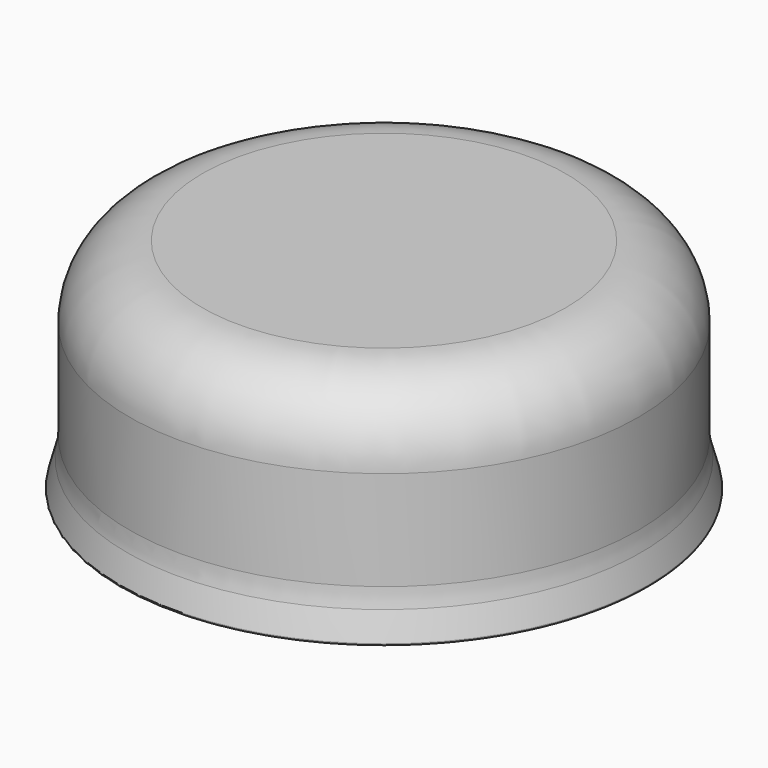
from build123d import *


with BuildPart() as f2:
    # F0 (on Front) → F2 (revolve)
    with BuildSketch(Plane.XZ):
        with BuildLine():
            Line((-24, 28.156529), (0, 28.156529))
            Line((0, 28.156529), (0, 30.156529))
            Line((0, 30.156529), (-25, 30.156529))
            ThreePointArc((-25, 30.156529), (-32.071068, 27.227597), (-35, 20.156529))
            Line((-35, 20.156529), (-35, 6.480276))
            ThreePointArc((-35, 6.480276), (-35.08648, 5.167977), (-35.344426, 3.878376))
            Line((-35.344426, 3.878376), (-36.32162, 0.252038))
            ThreePointArc((-36.32162, 0.252038), (-36.287265, 0.07836), (-36.128508, 0))
            Line((-36.128508, 0), (-34.538995, 0))
            ThreePointArc((-34.538995, 0), (-34.419273, 0.039792), (-34.347191, 0.143334))
            Line((-34.347191, 0.143334), (-33.631883, 2.564518))
            ThreePointArc((-33.631883, 2.564518), (-33.559801, 2.668059), (-33.440079, 2.707851))
            Line((-33.440079, 2.707851), (-32.738995, 2.707851))
            ThreePointArc((-32.738995, 2.707851), (-32.619273, 2.668059), (-32.547191, 2.564518))
            Line((-32.547191, 2.564518), (-31.831883, 0.143334))
            ThreePointArc((-31.831883, 0.143334), (-31.759801, 0.039792), (-31.640079, 0))
            Line((-31.640079, 0), (-30.092873, 0))
            ThreePointArc((-30.092873, 0), (-29.9259, 0.089909), (-29.909051, 0.2788))
            Line((-29.909051, 0.2788), (-31.191113, 3.269573))
            ThreePointArc((-31.191113, 3.269573), (-31.795691, 5.198474), (-32, 7.209552))
            Line((-32, 7.209552), (-32, 20.156529))
            ThreePointArc((-32, 20.156529), (-29.656854, 25.813384), (-24, 28.156529))
        make_face()
    revolve(axis=Axis((0, 0, 18.10123), (0, 0, 1)))


solid = f2.part
